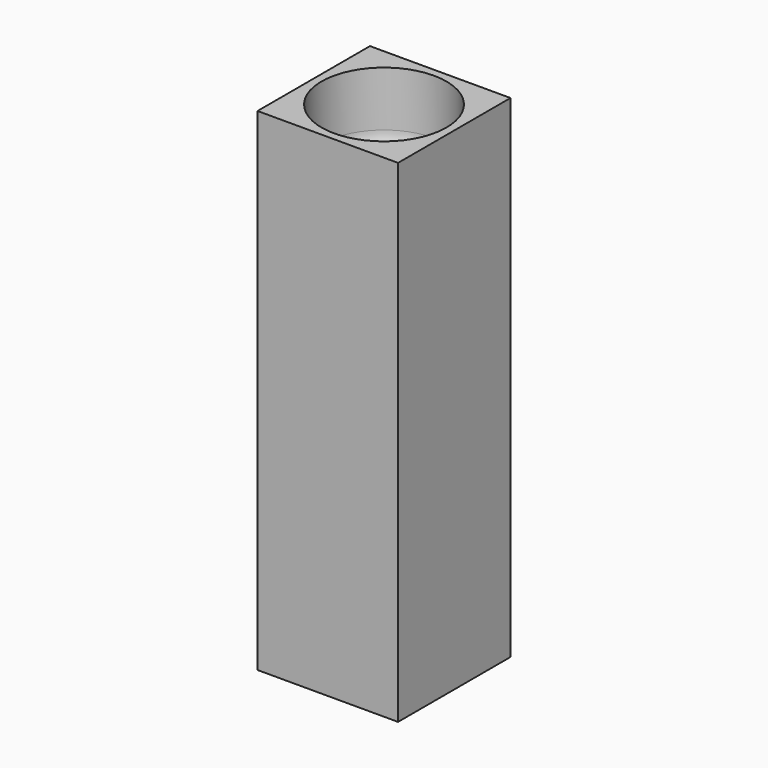
from build123d import *

# Parameters (mm, degrees)
F0_W     = 22.86
F0_H     = 22.86
F1_DEPTH = 67.31
F2_W     = 22.86
F2_H     = 22.86
F3_DEPTH = 12.7508
F8_T     = -2.54


with BuildPart() as f1:
    # F0 (on Top) → F1 (new body)
    with BuildSketch(Plane.XY):
        Rectangle(F0_W, F0_H)
    extrude(amount=F1_DEPTH)

    # F2 (on face) → F3 (join)
    with BuildSketch(Plane.XY.offset(67.31)):
        Rectangle(F2_W, F2_H)
    extrude(amount=F3_DEPTH)

    # F4 (on Right) → F5 (revolve, cut)
    with BuildSketch(Plane.YZ):
        Polygon((0, -11.43), (0, 67.31), (-5.08, 67.31), (-3.429, -11.43), align=None)
    revolve(axis=Axis((0, 0, 27.94), (0, 0, -1)), mode=Mode.SUBTRACT)

    # F6 (on Right) → F7 (revolve, cut)
    with BuildSketch(Plane.YZ):
        with BuildLine():
            Line((0, 83.82), (0, 67.31))
            Line((0, 67.31), (6.35, 67.31))
            ThreePointArc((6.35, 67.31), (9.0440768363, 68.4259231637), (10.16, 71.12))
            Line((10.16, 71.12), (10.16, 80.01))
            ThreePointArc((10.16, 80.01), (9.0440768363, 82.7040768363), (6.35, 83.82))
            Line((6.35, 83.82), (0, 83.82))
        make_face()
    revolve(axis=Axis((0, 0, 75.565), (0, 0, 1)), mode=Mode.SUBTRACT)

    # F8
    f8_openings = [f1.faces().sort_by_distance(p)[0] for p in [
        (0, -11.106711, 0),
    ]]
    offset(amount=F8_T, openings=f8_openings)


solid = f1.part
